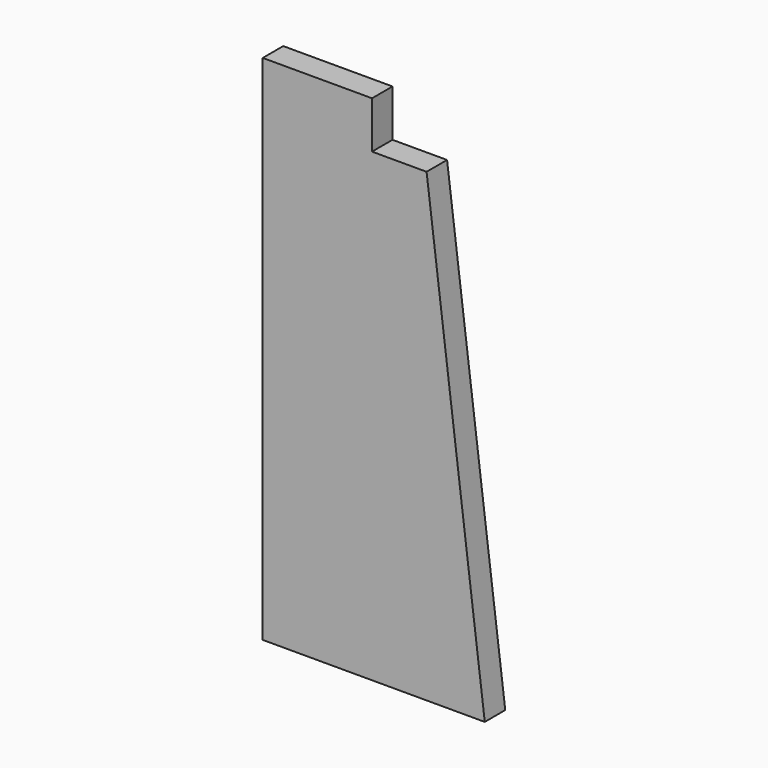
from build123d import *

# Parameters (mm, degrees)
F1_DEPTH = 19.05
F3_DEPTH = 19.051


with BuildPart() as f1:
    # F0 (on Front) → F1 (new body)
    with BuildSketch(Plane.XZ):
        Polygon((114.3, 272.951279), (0, 272.951279), (0, -133.448721), (165.1, -133.448721), align=None)
    extrude(amount=-F1_DEPTH)

    # F2 (on face) → F3 (cut, through all)
    with BuildSketch(Plane.XZ):
        Polygon((0, 272.951279), (0, 247.551279), (81.256442, 247.551279), (81.256442, 212.626279), (121.840625, 212.626279), (114.3, 272.951279), align=None)
    extrude(amount=-F3_DEPTH, mode=Mode.SUBTRACT)


solid = f1.part
